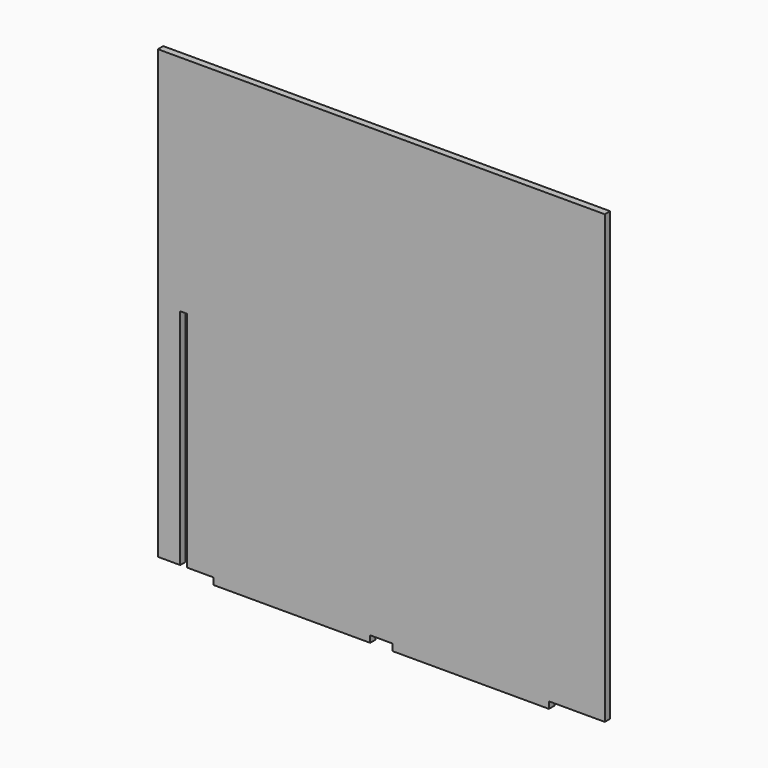
from build123d import *

# Parameters (mm, degrees)
F0_W     = 70
F0_H     = 3
F1_DEPTH = 3


with BuildPart() as f1:
    # F0 (on Front) → F1 (new body)
    with BuildSketch(Plane.XZ):
        Polygon((118.142857, 146.714286), (-81.857143, 146.714286), (-81.857143, -53.285714), (-71.857143, -53.285714), (-71.857143, 46.714286), (-68.857143, 46.714286), (-68.857143, -53.285714), (-56.857143, -53.285714), (13.142857, -53.285714), (23.142857, -53.285714), (93.142857, -53.285714), (118.142857, -53.285714), align=None)
        with Locations((58.142857, -54.785714)):
            Rectangle(F0_W, F0_H)
        with Locations((-21.857143, -54.785714)):
            Rectangle(F0_W, F0_H)
    extrude(amount=F1_DEPTH)


solid = f1.part
